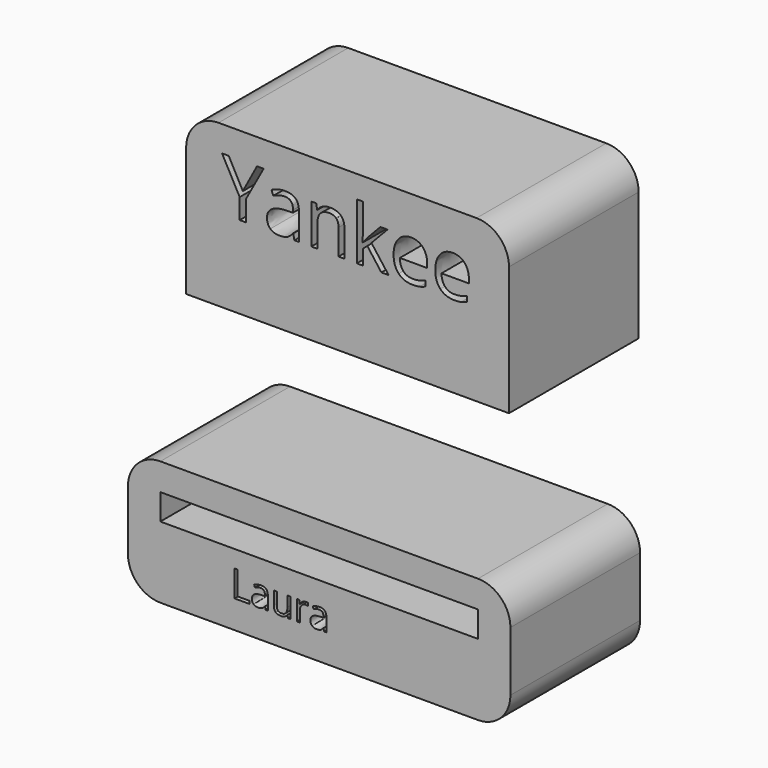
from build123d import *

# Parameters (mm, degrees)
F1_DEPTH = 25
F0_W     = 49
F0_H     = 4


with BuildPart() as f1:
    # F0 (on Front) → F1 (new body)
    with BuildSketch(Plane.XZ):
        with BuildLine():
            Line((28.0111707697, -18.0645545871), (-11.7888292303, -18.0645545871))
            ThreePointArc((-11.7888292303, -18.0645545871), (-15.3243631363, -19.5290206811), (-16.7888292303, -23.0645545871))
            Line((-16.7888292303, -23.0645545871), (-16.7888292303, -42.9472811429))
            Line((-16.7888292303, -42.9472811429), (33.0111707697, -42.9472811429))
            Line((33.0111707697, -42.9472811429), (33.0111707697, -23.0645545871))
            ThreePointArc((33.0111707697, -23.0645545871), (31.5467046756, -19.5290206811), (28.0111707697, -18.0645545871))
        make_face()
        with BuildLine():
            Line((0.6043112157, -30.2227575288), (-0.0846813666, -30.2227575288))
            Line((-0.0846813666, -30.2227575288), (-0.2690092523, -29.3494370608))
            Line((-0.2690092523, -29.3494370608), (-0.3137490304, -29.3494370608))
            add(Edge.make_bspline(
                [(-0.3137490304, -29.3494370608), (-0.7718843579, -29.9256854024), (-1.2273352987, -30.1305935859)],
                knots=[0, 0, 0, 1, 1, 1], degree=2))
            add(Edge.make_bspline(
                [(-1.2273352987, -30.1305935859), (-1.6827862395, -30.3355017695), (-2.3664100484, -30.3355017695)],
                knots=[0, 0, 0, 1, 1, 1], degree=2))
            add(Edge.make_bspline(
                [(-2.3664100484, -30.3355017695), (-3.27731193, -30.3355017695), (-3.7945037646, -29.8648393042)],
                knots=[0, 0, 0, 1, 1, 1], degree=2))
            add(Edge.make_bspline(
                [(-3.7945037646, -29.8648393042), (-4.3116955991, -29.3941768388), (-4.3116955991, -28.5280147353)],
                knots=[0, 0, 0, 1, 1, 1], degree=2))
            add(Edge.make_bspline(
                [(-4.3116955991, -28.5280147353), (-4.3116955991, -26.6722087408), (-1.3427639261, -26.5827291846)],
                knots=[0, 0, 0, 1, 1, 1], degree=2))
            Line((-1.3427639261, -26.5827291846), (-0.3030114836, -26.5487269533))
            Line((-0.3030114836, -26.5487269533), (-0.3030114836, -26.1675440441))
            add(Edge.make_bspline(
                [(-0.3030114836, -26.1675440441), (-0.3030114836, -25.4463388215), (-0.6126107479, -25.1027373259)],
                knots=[0, 0, 0, 1, 1, 1], degree=2))
            add(Edge.make_bspline(
                [(-0.6126107479, -25.1027373259), (-0.9222100122, -24.7591358303), (-1.6058338212, -24.7591358303)],
                knots=[0, 0, 0, 1, 1, 1], degree=2))
            add(Edge.make_bspline(
                [(-1.6058338212, -24.7591358303), (-2.3717788218, -24.7591358303), (-3.3381580282, -25.2280087045)],
                knots=[0, 0, 0, 1, 1, 1], degree=2))
            Line((-3.3381580282, -25.2280087045), (-3.6244926079, -24.5175410287))
            add(Edge.make_bspline(
                [(-3.6244926079, -24.5175410287), (-3.1717260538, -24.2723670449), (-2.6321643302, -24.1327789373)],
                knots=[0, 0, 0, 1, 1, 1], degree=2))
            add(Edge.make_bspline(
                [(-2.6321643302, -24.1327789373), (-2.0926026066, -23.9931908297), (-1.5485669052, -23.9931908297)],
                knots=[0, 0, 0, 1, 1, 1], degree=2))
            add(Edge.make_bspline(
                [(-1.5485669052, -23.9931908297), (-0.453337138, -23.9931908297), (0.0754870389, -24.4790648196)],
                knots=[0, 0, 0, 1, 1, 1], degree=2))
            add(Edge.make_bspline(
                [(0.0754870389, -24.4790648196), (0.6043112157, -24.9649388095), (0.6043112157, -26.0386934832)],
                knots=[0, 0, 0, 1, 1, 1], degree=2))
            Line((0.6043112157, -26.0386934832), (0.6043112157, -30.2227575288))
        make_face(mode=Mode.SUBTRACT)
        Polygon((-10.2119775316, -22.0461156879), (-8.0465722728, -26.1353314039), (-5.866850285, -22.0461156879), (-4.8378353893, -22.0461156879), (-7.5669618518, -27.0516020589), (-7.5669618518, -30.2227575288), (-8.5279722849, -30.2227575288), (-8.5279722849, -27.0963418369), (-11.251729974, -22.0461156879), align=None, mode=Mode.SUBTRACT)
        with BuildLine():
            Line((7.6391939201, -30.2227575288), (6.7103961273, -30.2227575288))
            Line((6.7103961273, -30.2227575288), (6.7103961273, -26.2570236002))
            add(Edge.make_bspline(
                [(6.7103961273, -26.2570236002), (6.7103961273, -25.5089745108), (6.3694790184, -25.1394239439)],
                knots=[0, 0, 0, 1, 1, 1], degree=2))
            add(Edge.make_bspline(
                [(6.3694790184, -25.1394239439), (6.0285619095, -24.7698733771), (5.3001983224, -24.7698733771)],
                knots=[0, 0, 0, 1, 1, 1], degree=2))
            add(Edge.make_bspline(
                [(5.3001983224, -24.7698733771), (4.3391878894, -24.7698733771), (3.8917901086, -25.2897495983)],
                knots=[0, 0, 0, 1, 1, 1], degree=2))
            add(Edge.make_bspline(
                [(3.8917901086, -25.2897495983), (3.4443923279, -25.8096258195), (3.4443923279, -27.0068622808)],
                knots=[0, 0, 0, 1, 1, 1], degree=2))
            Line((3.4443923279, -27.0068622808), (3.4443923279, -30.2227575288))
            Line((3.4443923279, -30.2227575288), (2.515594535, -30.2227575288))
            Line((2.515594535, -30.2227575288), (2.515594535, -24.0934079326))
            Line((2.515594535, -24.0934079326), (3.2708019889, -24.0934079326))
            Line((3.2708019889, -24.0934079326), (3.4211276433, -24.9327261692))
            Line((3.4211276433, -24.9327261692), (3.4658674213, -24.9327261692))
            add(Edge.make_bspline(
                [(3.4658674213, -24.9327261692), (3.752202001, -24.4799596151), (4.2667094489, -24.2303116535)],
                knots=[0, 0, 0, 1, 1, 1], degree=2))
            add(Edge.make_bspline(
                [(4.2667094489, -24.2303116535), (4.7812168967, -23.9806636918), (5.4129425632, -23.9806636918)],
                knots=[0, 0, 0, 1, 1, 1], degree=2))
            add(Edge.make_bspline(
                [(5.4129425632, -23.9806636918), (6.5206994683, -23.9806636918), (7.0799466942, -24.514856642)],
                knots=[0, 0, 0, 1, 1, 1], degree=2))
            add(Edge.make_bspline(
                [(7.0799466942, -24.514856642), (7.6391939201, -25.0490495922), (7.6391939201, -26.22481096)],
                knots=[0, 0, 0, 1, 1, 1], degree=2))
            Line((7.6391939201, -26.22481096), (7.6391939201, -30.2227575288))
        make_face(mode=Mode.SUBTRACT)
        with BuildLine():
            add(Edge.make_bspline(
                [(19.205321348, -30.2424430311), (18.7668715228, -30.3355017695), (18.1458834032, -30.3355017695)],
                knots=[0, 0, 0, 1, 1, 1], degree=2))
            add(Edge.make_bspline(
                [(18.1458834032, -30.3355017695), (16.7875837408, -30.3355017695), (16.0010584423, -29.5069210796)],
                knots=[0, 0, 0, 1, 1, 1], degree=2))
            add(Edge.make_bspline(
                [(16.0010584423, -29.5069210796), (15.2145331437, -28.6783403896), (15.2145331437, -27.2090860777)],
                knots=[0, 0, 0, 1, 1, 1], degree=2))
            add(Edge.make_bspline(
                [(15.2145331437, -27.2090860777), (15.2145331437, -25.7255150367), (15.9446863219, -24.8530893643)],
                knots=[0, 0, 0, 1, 1, 1], degree=2))
            add(Edge.make_bspline(
                [(15.9446863219, -24.8530893643), (16.6748395001, -23.9806636918), (17.9060781927, -23.9806636918)],
                knots=[0, 0, 0, 1, 1, 1], degree=2))
            add(Edge.make_bspline(
                [(17.9060781927, -23.9806636918), (19.0567852848, -23.9806636918), (19.7278819559, -24.7385555324)],
                knots=[0, 0, 0, 1, 1, 1], degree=2))
            add(Edge.make_bspline(
                [(19.7278819559, -24.7385555324), (20.398978627, -25.496447373), (20.398978627, -26.7384236123)],
                knots=[0, 0, 0, 1, 1, 1], degree=2))
            Line((20.398978627, -26.7384236123), (20.398978627, -27.3254095007))
            Line((20.398978627, -27.3254095007), (16.1773331679, -27.3254095007))
            add(Edge.make_bspline(
                [(16.1773331679, -27.3254095007), (16.2059666258, -28.4045329478), (16.7231584604, -28.9637801738)],
                knots=[0, 0, 0, 1, 1, 1], degree=2))
            add(Edge.make_bspline(
                [(16.7231584604, -28.9637801738), (17.2403502949, -29.5230273997), (18.1798856345, -29.5230273997)],
                knots=[0, 0, 0, 1, 1, 1], degree=2))
            add(Edge.make_bspline(
                [(18.1798856345, -29.5230273997), (19.1695295255, -29.5230273997), (20.1359087319, -29.1096318503)],
                knots=[0, 0, 0, 1, 1, 1], degree=2))
            Line((20.1359087319, -29.1096318503), (20.1359087319, -29.9382125402))
            add(Edge.make_bspline(
                [(20.1359087319, -29.9382125402), (19.6437711731, -30.1493842927), (19.205321348, -30.2424430311)],
                knots=[0, 0, 0, 1, 1, 1], degree=2))
        make_face(mode=Mode.SUBTRACT)
        with BuildLine():
            Line((10.4184289341, -27.0856042902), (10.4631687122, -27.0856042902))
            add(Edge.make_bspline(
                [(10.4631687122, -27.0856042902), (10.7029739227, -26.7437923857), (11.1951114815, -26.1908087287)],
                knots=[0, 0, 0, 1, 1, 1], degree=2))
            Line((11.1951114815, -26.1908087287), (13.1743992635, -24.0934079326))
            Line((13.1743992635, -24.0934079326), (14.2767873953, -24.0934079326))
            Line((14.2767873953, -24.0934079326), (11.7928349166, -26.704421381))
            Line((11.7928349166, -26.704421381), (14.4503777342, -30.2227575288))
            Line((14.4503777342, -30.2227575288), (13.326514509, -30.2227575288))
            Line((13.326514509, -30.2227575288), (11.1611092502, -27.3254095007))
            Line((11.1611092502, -27.3254095007), (10.4631687122, -27.9302913002))
            Line((10.4631687122, -27.9302913002), (10.4631687122, -30.2227575288))
            Line((10.4631687122, -30.2227575288), (9.5451084661, -30.2227575288))
            Line((9.5451084661, -30.2227575288), (9.5451084661, -21.5199758977))
            Line((9.5451084661, -21.5199758977), (10.4631687122, -21.5199758977))
            Line((10.4631687122, -21.5199758977), (10.4631687122, -26.1353314039))
            add(Edge.make_bspline(
                [(10.4631687122, -26.1353314039), (10.4631687122, -26.4413514859), (10.4184289341, -27.0856042902)],
                knots=[0, 0, 0, 1, 1, 1], degree=2))
        make_face(mode=Mode.SUBTRACT)
        with BuildLine():
            add(Edge.make_bspline(
                [(25.6317430706, -30.2424430311), (25.1932932454, -30.3355017695), (24.5723051258, -30.3355017695)],
                knots=[0, 0, 0, 1, 1, 1], degree=2))
            add(Edge.make_bspline(
                [(24.5723051258, -30.3355017695), (23.2140054634, -30.3355017695), (22.4274801649, -29.5069210796)],
                knots=[0, 0, 0, 1, 1, 1], degree=2))
            add(Edge.make_bspline(
                [(22.4274801649, -29.5069210796), (21.6409548663, -28.6783403896), (21.6409548663, -27.2090860777)],
                knots=[0, 0, 0, 1, 1, 1], degree=2))
            add(Edge.make_bspline(
                [(21.6409548663, -27.2090860777), (21.6409548663, -25.7255150367), (22.3711080445, -24.8530893643)],
                knots=[0, 0, 0, 1, 1, 1], degree=2))
            add(Edge.make_bspline(
                [(22.3711080445, -24.8530893643), (23.1012612227, -23.9806636918), (24.3324999153, -23.9806636918)],
                knots=[0, 0, 0, 1, 1, 1], degree=2))
            add(Edge.make_bspline(
                [(24.3324999153, -23.9806636918), (25.4832070074, -23.9806636918), (26.1543036785, -24.7385555324)],
                knots=[0, 0, 0, 1, 1, 1], degree=2))
            add(Edge.make_bspline(
                [(26.1543036785, -24.7385555324), (26.8254003496, -25.496447373), (26.8254003496, -26.7384236123)],
                knots=[0, 0, 0, 1, 1, 1], degree=2))
            Line((26.8254003496, -26.7384236123), (26.8254003496, -27.3254095007))
            Line((26.8254003496, -27.3254095007), (22.6037548905, -27.3254095007))
            add(Edge.make_bspline(
                [(22.6037548905, -27.3254095007), (22.6323883485, -28.4045329478), (23.149580183, -28.9637801738)],
                knots=[0, 0, 0, 1, 1, 1], degree=2))
            add(Edge.make_bspline(
                [(23.149580183, -28.9637801738), (23.6667720175, -29.5230273997), (24.6063073571, -29.5230273997)],
                knots=[0, 0, 0, 1, 1, 1], degree=2))
            add(Edge.make_bspline(
                [(24.6063073571, -29.5230273997), (25.5959512481, -29.5230273997), (26.5623304545, -29.1096318503)],
                knots=[0, 0, 0, 1, 1, 1], degree=2))
            Line((26.5623304545, -29.1096318503), (26.5623304545, -29.9382125402))
            add(Edge.make_bspline(
                [(26.5623304545, -29.9382125402), (26.0701928957, -30.1493842927), (25.6317430706, -30.2424430311)],
                knots=[0, 0, 0, 1, 1, 1], degree=2))
        make_face(mode=Mode.SUBTRACT)
    extrude(amount=F1_DEPTH)


with BuildPart() as f1b:
    # F0 (on Front) → F1, piece 2 (new body)
    with BuildSketch(Plane.XZ):
        with BuildLine():
            ThreePointArc((-25.7669325173, -81.1662168348), (-24.3024664232, -84.7017507407), (-20.7669325173, -86.1662168348))
            Line((-20.7669325173, -86.1662168348), (28.2330674827, -86.1662168348))
            ThreePointArc((28.2330674827, -86.1662168348), (31.7686013886, -84.7017507407), (33.2330674827, -81.1662168348))
            Line((33.2330674827, -81.1662168348), (33.2330674827, -71.9653728843))
            ThreePointArc((33.2330674827, -71.9653728843), (31.7686013886, -68.4298389783), (28.2330674827, -66.9653728843))
            Line((28.2330674827, -66.9653728843), (-20.7669325173, -66.9653728843))
            ThreePointArc((-20.7669325173, -66.9653728843), (-24.3024664232, -68.4298389783), (-25.7669325173, -71.9653728843))
            Line((-25.7669325173, -71.9653728843), (-25.7669325173, -81.1662168348))
        make_face()
        Polygon((-7.0446484185, -81.8631872535), (-9.3226428014, -81.8631872535), (-9.3226428014, -77.7767497445), (-8.8477252446, -77.7767497445), (-8.8477252446, -81.4329888639), (-7.0446484185, -81.4329888639), align=None, mode=Mode.SUBTRACT)
        with BuildLine():
            Line((-4.1933543107, -81.8631872535), (-4.537691899, -81.8631872535))
            Line((-4.537691899, -81.8631872535), (-4.6298133837, -81.4267281805))
            Line((-4.6298133837, -81.4267281805), (-4.6521729673, -81.4267281805))
            add(Edge.make_bspline(
                [(-4.6521729673, -81.4267281805), (-4.881135104, -81.714719618), (-5.1087556656, -81.8171265111)],
                knots=[0, 0, 0, 1, 1, 1], degree=2))
            add(Edge.make_bspline(
                [(-5.1087556656, -81.8171265111), (-5.3363762272, -81.9195334043), (-5.6780306655, -81.9195334043)],
                knots=[0, 0, 0, 1, 1, 1], degree=2))
            add(Edge.make_bspline(
                [(-5.6780306655, -81.9195334043), (-6.1332717887, -81.9195334043), (-6.3917485758, -81.6843105842)],
                knots=[0, 0, 0, 1, 1, 1], degree=2))
            add(Edge.make_bspline(
                [(-6.3917485758, -81.6843105842), (-6.6502253628, -81.4490877642), (-6.6502253628, -81.0162062246)],
                knots=[0, 0, 0, 1, 1, 1], degree=2))
            add(Edge.make_bspline(
                [(-6.6502253628, -81.0162062246), (-6.6502253628, -80.0887306945), (-5.1664433914, -80.0440115272)],
                knots=[0, 0, 0, 1, 1, 1], degree=2))
            Line((-5.1664433914, -80.0440115272), (-4.6468066672, -80.0270182436))
            Line((-4.6468066672, -80.0270182436), (-4.6468066672, -79.8365145909))
            add(Edge.make_bspline(
                [(-4.6468066672, -79.8365145909), (-4.6468066672, -79.4760781023), (-4.8015349861, -79.3043564999)],
                knots=[0, 0, 0, 1, 1, 1], degree=2))
            add(Edge.make_bspline(
                [(-4.8015349861, -79.3043564999), (-4.9562633051, -79.1326348974), (-5.2979177433, -79.1326348974)],
                knots=[0, 0, 0, 1, 1, 1], degree=2))
            add(Edge.make_bspline(
                [(-5.2979177433, -79.1326348974), (-5.6807138155, -79.1326348974), (-6.1636808225, -79.3669633341)],
                knots=[0, 0, 0, 1, 1, 1], degree=2))
            Line((-6.1636808225, -79.3669633341), (-6.3067821579, -79.0118931456))
            add(Edge.make_bspline(
                [(-6.3067821579, -79.0118931456), (-6.0805031713, -78.8893626272), (-5.8108465924, -78.8196007262)],
                knots=[0, 0, 0, 1, 1, 1], degree=2))
            add(Edge.make_bspline(
                [(-5.8108465924, -78.8196007262), (-5.5411900135, -78.7498388252), (-5.2692974762, -78.7498388252)],
                knots=[0, 0, 0, 1, 1, 1], degree=2))
            add(Edge.make_bspline(
                [(-5.2692974762, -78.7498388252), (-4.7219348683, -78.7498388252), (-4.4576445895, -78.9926639037)],
                knots=[0, 0, 0, 1, 1, 1], degree=2))
            add(Edge.make_bspline(
                [(-4.4576445895, -78.9926639037), (-4.1933543107, -79.2354889822), (-4.1933543107, -79.7721189899)],
                knots=[0, 0, 0, 1, 1, 1], degree=2))
            Line((-4.1933543107, -79.7721189899), (-4.1933543107, -81.8631872535))
        make_face(mode=Mode.SUBTRACT)
        with BuildLine():
            Line((-3.2712450807, -78.7999242926), (-2.8016938239, -78.7999242926))
            Line((-2.8016938239, -78.7999242926), (-2.8016938239, -80.7872440879))
            add(Edge.make_bspline(
                [(-2.8016938239, -80.7872440879), (-2.8016938239, -81.16199071), (-2.6313137965, -81.3462336793)],
                knots=[0, 0, 0, 1, 1, 1], degree=2))
            add(Edge.make_bspline(
                [(-2.6313137965, -81.3462336793), (-2.460933769, -81.5304766487), (-2.0978141304, -81.5304766487)],
                knots=[0, 0, 0, 1, 1, 1], degree=2))
            add(Edge.make_bspline(
                [(-2.0978141304, -81.5304766487), (-1.6166358902, -81.5304766487), (-1.3948288203, -81.2679751365)],
                knots=[0, 0, 0, 1, 1, 1], degree=2))
            add(Edge.make_bspline(
                [(-1.3948288203, -81.2679751365), (-1.1730217504, -81.0054736244), (-1.1730217504, -80.4098143158)],
                knots=[0, 0, 0, 1, 1, 1], degree=2))
            Line((-1.1730217504, -80.4098143158), (-1.1730217504, -78.7999242926))
            Line((-1.1730217504, -78.7999242926), (-0.7088367937, -78.7999242926))
            Line((-0.7088367937, -78.7999242926), (-0.7088367937, -81.8631872535))
            Line((-0.7088367937, -81.8631872535), (-1.0916328659, -81.8631872535))
            Line((-1.0916328659, -81.8631872535), (-1.1587116169, -81.4526652975))
            Line((-1.1587116169, -81.4526652975), (-1.1837543506, -81.4526652975))
            add(Edge.make_bspline(
                [(-1.1837543506, -81.4526652975), (-1.3259613026, -81.6789442841), (-1.5790717896, -81.7992388442)],
                knots=[0, 0, 0, 1, 1, 1], degree=2))
            add(Edge.make_bspline(
                [(-1.5790717896, -81.7992388442), (-1.8321822766, -81.9195334043), (-2.1568434313, -81.9195334043)],
                knots=[0, 0, 0, 1, 1, 1], degree=2))
            add(Edge.make_bspline(
                [(-2.1568434313, -81.9195334043), (-2.7158330227, -81.9195334043), (-2.9935390517, -81.6539015505)],
                knots=[0, 0, 0, 1, 1, 1], degree=2))
            add(Edge.make_bspline(
                [(-2.9935390517, -81.6539015505), (-3.2712450807, -81.3882696966), (-3.2712450807, -80.8042373715)],
                knots=[0, 0, 0, 1, 1, 1], degree=2))
            Line((-3.2712450807, -80.8042373715), (-3.2712450807, -78.7999242926))
        make_face(mode=Mode.SUBTRACT)
        with BuildLine():
            add(Edge.make_bspline(
                [(1.1443254997, -78.9059087191), (1.3849146198, -78.7435781418), (1.6729060573, -78.7435781418)],
                knots=[0, 0, 0, 1, 1, 1], degree=2))
            add(Edge.make_bspline(
                [(1.6729060573, -78.7435781418), (1.8768254603, -78.7435781418), (2.038708846, -78.7775647089)],
                knots=[0, 0, 0, 1, 1, 1], degree=2))
            Line((2.038708846, -78.7775647089), (1.974313245, -79.2077630985))
            add(Edge.make_bspline(
                [(1.974313245, -79.2077630985), (1.7847039756, -79.1657270812), (1.6389194902, -79.1657270812)],
                knots=[0, 0, 0, 1, 1, 1], degree=2))
            add(Edge.make_bspline(
                [(1.6389194902, -79.1657270812), (1.2668560181, -79.1657270812), (1.003012931, -79.4675814605)],
                knots=[0, 0, 0, 1, 1, 1], degree=2))
            add(Edge.make_bspline(
                [(1.003012931, -79.4675814605), (0.7391698439, -79.7694358399), (0.7391698439, -80.2193106631)],
                knots=[0, 0, 0, 1, 1, 1], degree=2))
            Line((0.7391698439, -80.2193106631), (0.7391698439, -81.8631872535))
            Line((0.7391698439, -81.8631872535), (0.2749848872, -81.8631872535))
            Line((0.2749848872, -81.8631872535), (0.2749848872, -78.7999242926))
            Line((0.2749848872, -78.7999242926), (0.6577809593, -78.7999242926))
            Line((0.6577809593, -78.7999242926), (0.7114439601, -79.3669633341))
            Line((0.7114439601, -79.3669633341), (0.7338035438, -79.3669633341))
            add(Edge.make_bspline(
                [(0.7338035438, -79.3669633341), (0.9037363796, -79.0682392965), (1.1443254997, -78.9059087191)],
                knots=[0, 0, 0, 1, 1, 1], degree=2))
        make_face(mode=Mode.SUBTRACT)
        with BuildLine():
            Line((4.8399174864, -81.8631872535), (4.4955798981, -81.8631872535))
            Line((4.4955798981, -81.8631872535), (4.4034584134, -81.4267281805))
            Line((4.4034584134, -81.4267281805), (4.3810988298, -81.4267281805))
            add(Edge.make_bspline(
                [(4.3810988298, -81.4267281805), (4.1521366931, -81.714719618), (3.9245161315, -81.8171265111)],
                knots=[0, 0, 0, 1, 1, 1], degree=2))
            add(Edge.make_bspline(
                [(3.9245161315, -81.8171265111), (3.6968955699, -81.9195334043), (3.3552411316, -81.9195334043)],
                knots=[0, 0, 0, 1, 1, 1], degree=2))
            add(Edge.make_bspline(
                [(3.3552411316, -81.9195334043), (2.9000000084, -81.9195334043), (2.6415232213, -81.6843105842)],
                knots=[0, 0, 0, 1, 1, 1], degree=2))
            add(Edge.make_bspline(
                [(2.6415232213, -81.6843105842), (2.3830464343, -81.4490877642), (2.3830464343, -81.0162062246)],
                knots=[0, 0, 0, 1, 1, 1], degree=2))
            add(Edge.make_bspline(
                [(2.3830464343, -81.0162062246), (2.3830464343, -80.0887306945), (3.8668284057, -80.0440115272)],
                knots=[0, 0, 0, 1, 1, 1], degree=2))
            Line((3.8668284057, -80.0440115272), (4.3864651299, -80.0270182436))
            Line((4.3864651299, -80.0270182436), (4.3864651299, -79.8365145909))
            add(Edge.make_bspline(
                [(4.3864651299, -79.8365145909), (4.3864651299, -79.4760781023), (4.231736811, -79.3043564999)],
                knots=[0, 0, 0, 1, 1, 1], degree=2))
            add(Edge.make_bspline(
                [(4.231736811, -79.3043564999), (4.0770084921, -79.1326348974), (3.7353540538, -79.1326348974)],
                knots=[0, 0, 0, 1, 1, 1], degree=2))
            add(Edge.make_bspline(
                [(3.7353540538, -79.1326348974), (3.3525579816, -79.1326348974), (2.8695909746, -79.3669633341)],
                knots=[0, 0, 0, 1, 1, 1], degree=2))
            Line((2.8695909746, -79.3669633341), (2.7264896392, -79.0118931456))
            add(Edge.make_bspline(
                [(2.7264896392, -79.0118931456), (2.9527686258, -78.8893626272), (3.2224252047, -78.8196007262)],
                knots=[0, 0, 0, 1, 1, 1], degree=2))
            add(Edge.make_bspline(
                [(3.2224252047, -78.8196007262), (3.4920817836, -78.7498388252), (3.7639743209, -78.7498388252)],
                knots=[0, 0, 0, 1, 1, 1], degree=2))
            add(Edge.make_bspline(
                [(3.7639743209, -78.7498388252), (4.3113369288, -78.7498388252), (4.5756272076, -78.9926639037)],
                knots=[0, 0, 0, 1, 1, 1], degree=2))
            add(Edge.make_bspline(
                [(4.5756272076, -78.9926639037), (4.8399174864, -79.2354889822), (4.8399174864, -79.7721189899)],
                knots=[0, 0, 0, 1, 1, 1], degree=2))
            Line((4.8399174864, -79.7721189899), (4.8399174864, -81.8631872535))
        make_face(mode=Mode.SUBTRACT)
        with Locations((3.7330674827, -73.1418247819)):
            Rectangle(F0_W, F0_H, mode=Mode.SUBTRACT)
    extrude(amount=F1_DEPTH)


solid = Compound([f1.part, f1b.part])
